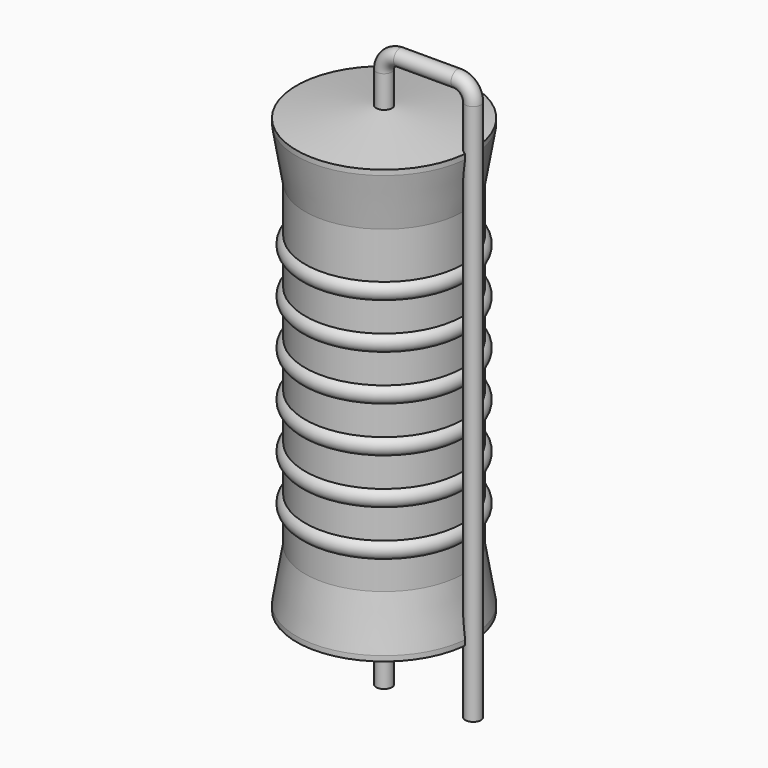
from build123d import *

# Parameters (mm, degrees)
SKETCH_R = 0.45


with BuildPart() as sweep_body:
    # Sweep: sweep along a path in Sketch001
    with BuildLine(Plane.XZ) as sweep_path:
        Line((0, -3), (0, 27.9))
        ThreePointArc((0, 27.9), (0.263599, 28.536391), (0.899987, 28.8))
        Line((0.899987, 28.8), (4.18, 28.8))
        ThreePointArc((4.18, 28.8), (4.816396, 28.536396), (5.08, 27.9))
        Line((5.08, 27.9), (5.08, -3))
    # Sketch → Sweep (sweep)
    with BuildSketch(Plane.XY.offset(-2)):
        Circle(SKETCH_R)
    sweep(path=sweep_path.line)


with BuildPart() as revolution:
    # Sketch002 → Revolution (revolve)
    with BuildSketch(Plane.XZ):
        Polygon((0, 0.1), (0, 26.1), (0.3375, 26.1), (5, 25.45), (5, 25.1575), (4.5, 22.2), (4.5, 4), (5, 1.0425), (5, 0.75), (0.3375, 0.1), align=None)
    revolve(axis=Axis((0, 0, 0), (0, 0, 1)))


with BuildPart() as revolution001:
    # Sketch003 → Revolution001 (revolve)
    with BuildSketch(Plane.XZ):
        with BuildLine():
            Line((4, 21.2), (4, 4))
            Line((4, 4), (4.3, 4))
            Line((4.3, 4), (4.3, 5.6))
            ThreePointArc((4.3, 5.6), (4.8, 6.1), (4.3, 6.6))
            Line((4.3, 6.6), (4.3, 8.2))
            ThreePointArc((4.3, 8.2), (4.8, 8.7), (4.3, 9.2))
            Line((4.3, 9.2), (4.3, 10.8))
            ThreePointArc((4.3, 10.8), (4.8, 11.3), (4.3, 11.8))
            Line((4.3, 11.8), (4.3, 13.4))
            ThreePointArc((4.3, 13.4), (4.8, 13.9), (4.3, 14.4))
            Line((4.3, 14.4), (4.3, 16))
            ThreePointArc((4.3, 16), (4.8, 16.5), (4.3, 17))
            Line((4.3, 17), (4.3, 18.6))
            ThreePointArc((4.3, 18.6), (4.8, 19.1), (4.3, 19.6))
            Line((4.3, 21.2), (4.3, 19.6))
            Line((4, 21.2), (4.3, 21.2))
        make_face()
    revolve(axis=Axis((0, 0, 0), (0, 0, 1)))


solid = Compound([sweep_body.part, revolution.part, revolution001.part])
